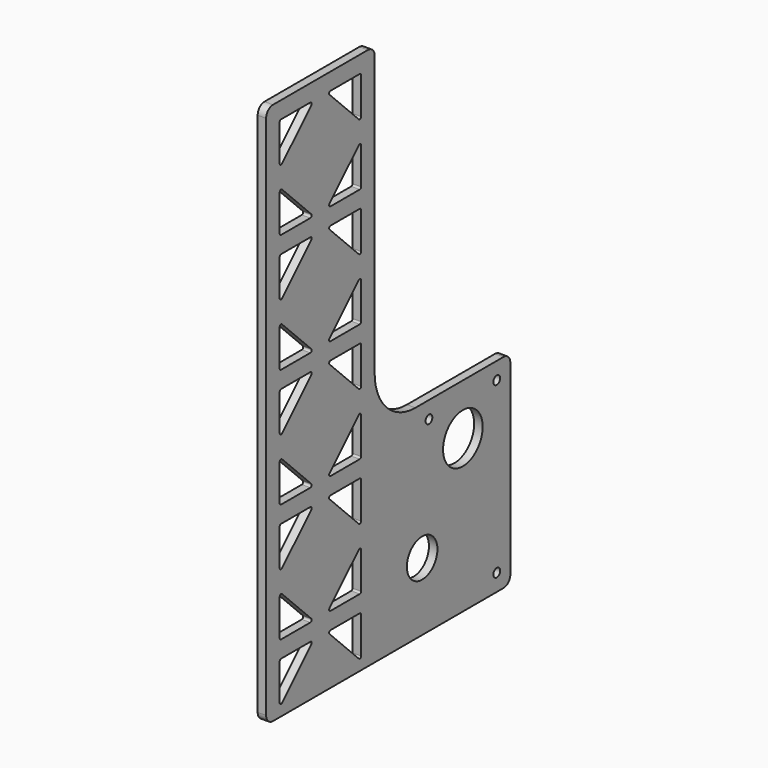
from build123d import *

# Parameters (mm, degrees)
F0_R     = 14.2875
F0_R_2   = 3.175
F0_R_3   = 18.542
F1_DEPTH = 6.35
F2_R     = 6.35


with BuildPart() as f1:
    # F0 (on Right) → F1 (new body)
    with BuildSketch(Plane.YZ):
        Polygon((0, 406.4), (0, 0), (101.6, 0), (101.6, 152.4), (101.6, 190.5), (101.6, 406.4), align=None)
        with BuildLine():
            ThreePointArc((14.868026, 8.518026), (13.483992, 8.242724), (12.7, 9.416051))
            Line((12.7, 9.416051), (12.7, 36.83))
            ThreePointArc((12.7, 36.83), (13.071974, 37.728026), (13.97, 38.1))
            Line((13.97, 38.1), (41.383949, 38.1))
            ThreePointArc((41.383949, 38.1), (42.557276, 37.316008), (42.281974, 35.931974))
            Line((42.281974, 35.931974), (14.868026, 8.518026))
        make_face(mode=Mode.SUBTRACT)
        with BuildLine():
            Line((41.383949, 50.8), (13.97, 50.8))
            ThreePointArc((13.97, 50.8), (13.071974, 51.171974), (12.7, 52.07))
            Line((12.7, 52.07), (12.7, 79.483949))
            ThreePointArc((12.7, 79.483949), (13.483992, 80.657276), (14.868026, 80.381974))
            Line((14.868026, 80.381974), (42.281974, 52.968026))
            ThreePointArc((42.281974, 52.968026), (42.557276, 51.583992), (41.383949, 50.8))
        make_face(mode=Mode.SUBTRACT)
        with BuildLine():
            Line((88.9, 36.83), (88.9, 9.416051))
            ThreePointArc((88.9, 9.416051), (88.116008, 8.242724), (86.731974, 8.518026))
            Line((86.731974, 8.518026), (59.318026, 35.931974))
            ThreePointArc((59.318026, 35.931974), (59.042724, 37.316008), (60.216051, 38.1))
            Line((60.216051, 38.1), (87.63, 38.1))
            ThreePointArc((87.63, 38.1), (88.528026, 37.728026), (88.9, 36.83))
        make_face(mode=Mode.SUBTRACT)
        with BuildLine():
            ThreePointArc((60.216051, 50.8), (59.042724, 51.583992), (59.318026, 52.968026))
            Line((59.318026, 52.968026), (86.731974, 80.381974))
            ThreePointArc((86.731974, 80.381974), (88.116008, 80.657276), (88.9, 79.483949))
            Line((88.9, 79.483949), (88.9, 52.07))
            ThreePointArc((88.9, 52.07), (88.528026, 51.171974), (87.63, 50.8))
            Line((87.63, 50.8), (60.216051, 50.8))
        make_face(mode=Mode.SUBTRACT)
        with BuildLine():
            ThreePointArc((14.868026, 97.418026), (13.483992, 97.142724), (12.7, 98.316051))
            Line((12.7, 98.316051), (12.7, 125.73))
            ThreePointArc((12.7, 125.73), (13.071974, 126.628026), (13.97, 127))
            Line((13.97, 127), (41.383949, 127))
            ThreePointArc((41.383949, 127), (42.557276, 126.216008), (42.281974, 124.831974))
            Line((42.281974, 124.831974), (14.868026, 97.418026))
        make_face(mode=Mode.SUBTRACT)
        with BuildLine():
            Line((41.383949, 139.7), (13.97, 139.7))
            ThreePointArc((13.97, 139.7), (13.071974, 140.071974), (12.7, 140.97))
            Line((12.7, 140.97), (12.7, 168.383949))
            ThreePointArc((12.7, 168.383949), (13.483992, 169.557276), (14.868026, 169.281974))
            Line((14.868026, 169.281974), (42.281974, 141.868026))
            ThreePointArc((42.281974, 141.868026), (42.557276, 140.483992), (41.383949, 139.7))
        make_face(mode=Mode.SUBTRACT)
        with BuildLine():
            ThreePointArc((14.868026, 186.318026), (13.483992, 186.042724), (12.7, 187.216051))
            Line((12.7, 187.216051), (12.7, 214.63))
            ThreePointArc((12.7, 214.63), (13.071974, 215.528026), (13.97, 215.9))
            Line((13.97, 215.9), (41.383949, 215.9))
            ThreePointArc((41.383949, 215.9), (42.557276, 215.116008), (42.281974, 213.731974))
            Line((42.281974, 213.731974), (14.868026, 186.318026))
        make_face(mode=Mode.SUBTRACT)
        with BuildLine():
            Line((88.9, 125.73), (88.9, 98.316051))
            ThreePointArc((88.9, 98.316051), (88.116008, 97.142724), (86.731974, 97.418026))
            Line((86.731974, 97.418026), (59.318026, 124.831974))
            ThreePointArc((59.318026, 124.831974), (59.042724, 126.216008), (60.216051, 127))
            Line((60.216051, 127), (87.63, 127))
            ThreePointArc((87.63, 127), (88.528026, 126.628026), (88.9, 125.73))
        make_face(mode=Mode.SUBTRACT)
        with BuildLine():
            ThreePointArc((60.216051, 139.7), (59.042724, 140.483992), (59.318026, 141.868026))
            Line((59.318026, 141.868026), (86.731974, 169.281974))
            ThreePointArc((86.731974, 169.281974), (88.116008, 169.557276), (88.9, 168.383949))
            Line((88.9, 168.383949), (88.9, 140.97))
            ThreePointArc((88.9, 140.97), (88.528026, 140.071974), (87.63, 139.7))
            Line((87.63, 139.7), (60.216051, 139.7))
        make_face(mode=Mode.SUBTRACT)
        with BuildLine():
            Line((88.9, 214.63), (88.9, 187.216051))
            ThreePointArc((88.9, 187.216051), (88.116008, 186.042724), (86.731974, 186.318026))
            Line((86.731974, 186.318026), (59.318026, 213.731974))
            ThreePointArc((59.318026, 213.731974), (59.042724, 215.116008), (60.216051, 215.9))
            Line((60.216051, 215.9), (87.63, 215.9))
            ThreePointArc((87.63, 215.9), (88.528026, 215.528026), (88.9, 214.63))
        make_face(mode=Mode.SUBTRACT)
        with BuildLine():
            Line((41.383949, 228.6), (13.97, 228.6))
            ThreePointArc((13.97, 228.6), (13.071974, 228.971974), (12.7, 229.87))
            Line((12.7, 229.87), (12.7, 257.283949))
            ThreePointArc((12.7, 257.283949), (13.483992, 258.457276), (14.868026, 258.181974))
            Line((14.868026, 258.181974), (42.281974, 230.768026))
            ThreePointArc((42.281974, 230.768026), (42.557276, 229.383992), (41.383949, 228.6))
        make_face(mode=Mode.SUBTRACT)
        with BuildLine():
            ThreePointArc((14.868026, 275.218026), (13.483992, 274.942724), (12.7, 276.116051))
            Line((12.7, 276.116051), (12.7, 303.53))
            ThreePointArc((12.7, 303.53), (13.071974, 304.428026), (13.97, 304.8))
            Line((13.97, 304.8), (41.383949, 304.8))
            ThreePointArc((41.383949, 304.8), (42.557276, 304.016008), (42.281974, 302.631974))
            Line((42.281974, 302.631974), (14.868026, 275.218026))
        make_face(mode=Mode.SUBTRACT)
        with BuildLine():
            ThreePointArc((60.216051, 228.6), (59.042724, 229.383992), (59.318026, 230.768026))
            Line((59.318026, 230.768026), (86.731974, 258.181974))
            ThreePointArc((86.731974, 258.181974), (88.116008, 258.457276), (88.9, 257.283949))
            Line((88.9, 257.283949), (88.9, 229.87))
            ThreePointArc((88.9, 229.87), (88.528026, 228.971974), (87.63, 228.6))
            Line((87.63, 228.6), (60.216051, 228.6))
        make_face(mode=Mode.SUBTRACT)
        with BuildLine():
            Line((88.9, 303.53), (88.9, 276.116051))
            ThreePointArc((88.9, 276.116051), (88.116008, 274.942724), (86.731974, 275.218026))
            Line((86.731974, 275.218026), (59.318026, 302.631974))
            ThreePointArc((59.318026, 302.631974), (59.042724, 304.016008), (60.216051, 304.8))
            Line((60.216051, 304.8), (87.63, 304.8))
            ThreePointArc((87.63, 304.8), (88.528026, 304.428026), (88.9, 303.53))
        make_face(mode=Mode.SUBTRACT)
        with BuildLine():
            ThreePointArc((13.97, 317.5), (13.071974, 317.871974), (12.7, 318.77))
            Line((12.7, 318.77), (12.7, 346.183949))
            ThreePointArc((12.7, 346.183949), (13.483992, 347.357276), (14.868026, 347.081974))
            Line((14.868026, 347.081974), (42.281974, 319.668026))
            ThreePointArc((42.281974, 319.668026), (42.557276, 318.283992), (41.383949, 317.5))
            Line((41.383949, 317.5), (13.97, 317.5))
        make_face(mode=Mode.SUBTRACT)
        with BuildLine():
            Line((12.7, 365.016051), (12.7, 392.43))
            ThreePointArc((12.7, 392.43), (13.071974, 393.328026), (13.97, 393.7))
            Line((13.97, 393.7), (41.383949, 393.7))
            ThreePointArc((41.383949, 393.7), (42.557276, 392.916008), (42.281974, 391.531974))
            Line((42.281974, 391.531974), (14.868026, 364.118026))
            ThreePointArc((14.868026, 364.118026), (13.483992, 363.842724), (12.7, 365.016051))
        make_face(mode=Mode.SUBTRACT)
        with BuildLine():
            Line((87.63, 317.5), (60.216051, 317.5))
            ThreePointArc((60.216051, 317.5), (59.042724, 318.283992), (59.318026, 319.668026))
            Line((59.318026, 319.668026), (86.731974, 347.081974))
            ThreePointArc((86.731974, 347.081974), (88.116008, 347.357276), (88.9, 346.183949))
            Line((88.9, 346.183949), (88.9, 318.77))
            ThreePointArc((88.9, 318.77), (88.528026, 317.871974), (87.63, 317.5))
        make_face(mode=Mode.SUBTRACT)
        with BuildLine():
            Line((60.216051, 393.7), (87.63, 393.7))
            ThreePointArc((87.63, 393.7), (88.528026, 393.328026), (88.9, 392.43))
            Line((88.9, 392.43), (88.9, 365.016051))
            ThreePointArc((88.9, 365.016051), (88.116008, 363.842724), (86.731974, 364.118026))
            Line((86.731974, 364.118026), (59.318026, 391.531974))
            ThreePointArc((59.318026, 391.531974), (59.042724, 392.916008), (60.216051, 393.7))
        make_face(mode=Mode.SUBTRACT)
        Polygon((101.6, 152.4), (101.6, 0), (228.6, 0), (228.6, 152.4), (139.7, 152.4), align=None)
        with Locations((146.05, 50.8)):
            Circle(F0_R, mode=Mode.SUBTRACT)
        with Locations((215.9, 12.7)):
            Circle(F0_R_2, mode=Mode.SUBTRACT)
        with Locations((152.4, 139.7)):
            Circle(F0_R_2, mode=Mode.SUBTRACT)
        with Locations((184.15, 114.3)):
            Circle(F0_R_3, mode=Mode.SUBTRACT)
        with Locations((215.9, 139.7)):
            Circle(F0_R_2, mode=Mode.SUBTRACT)
        with BuildLine():
            Line((101.6, 190.5), (101.6, 152.4))
            Line((101.6, 152.4), (139.7, 152.4))
            ThreePointArc((139.7, 152.4), (112.759232, 163.559232), (101.6, 190.5))
        make_face()
    extrude(amount=F1_DEPTH)

    # F2
    f2_edges = [f1.edges().sort_by_distance(p)[0] for p in [
        (3.175, 228.6, 0),
        (3.175, 228.6, 152.4),
        (3.175, 0, 0),
        (3.175, 0, 406.4),
        (3.175, 101.6, 406.4),
    ]]
    fillet(f2_edges, radius=F2_R)


solid = f1.part
